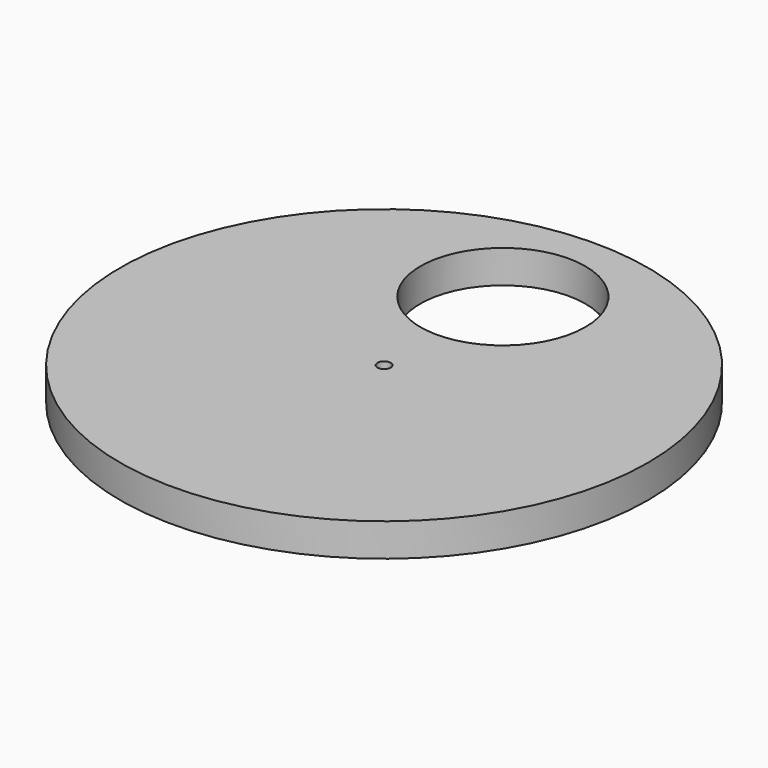
from build123d import *

# Parameters (mm, degrees)
F0_R     = 40
F0_R_2   = 1
F0_R_3   = 12.5
F1_DEPTH = 5


with BuildPart() as f1:
    # F0 (on Top) → F1 (new body)
    with BuildSketch(Plane.XY):
        Circle(F0_R)
        Circle(F0_R_2, mode=Mode.SUBTRACT)
        with Locations((0, 22.5)):
            Circle(F0_R_3, mode=Mode.SUBTRACT)
    extrude(amount=F1_DEPTH)


solid = f1.part
